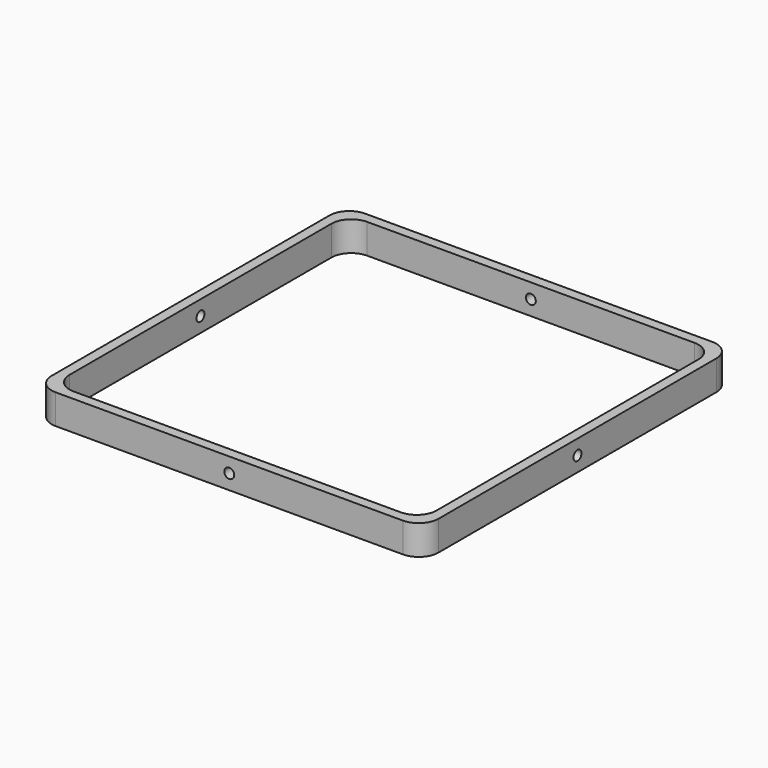
from build123d import *

# Parameters (mm, degrees)
F0_W     = 194.99999
F0_H     = 194.99999
F0_W_2   = 185
F0_H_2   = 185
F1_DEPTH = 15
F2_R     = 10
F3_R     = 2.5
F4_DEPTH = 195.00099
F5_R     = 2.5
F6_DEPTH = 195.00099


with BuildPart() as f1:
    # F0 (on Top) → F1 (new body)
    with BuildSketch(Plane.XY):
        Rectangle(F0_W, F0_H)
        Rectangle(F0_W_2, F0_H_2, mode=Mode.SUBTRACT)
    extrude(amount=F1_DEPTH)

    # F2
    f2_edges = [f1.edges().sort_by_distance(p)[0] for p in [
        (-97.499995, -97.499995, 7.5),
        (97.499995, -97.499995, 7.5),
        (92.5, 92.5, 7.5),
        (-97.499995, 97.499995, 7.5),
        (97.499995, 97.499995, 7.5),
        (92.5, -92.5, 7.5),
        (-92.5, -92.5, 7.5),
        (-92.5, 92.5, 7.5),
    ]]
    fillet(f2_edges, radius=F2_R)

    # F3 (on face) → F4 (cut, through all)
    with BuildSketch(Plane.YZ.offset(97.499995)):
        with Locations((0, 7.5)):
            Circle(F3_R)
    extrude(amount=-F4_DEPTH, mode=Mode.SUBTRACT)

    # F5 (on face) → F6 (cut, through all)
    with BuildSketch(Plane.XZ.offset(97.499995)):
        with Locations((0, 7.5)):
            Circle(F5_R)
    extrude(amount=-F6_DEPTH, mode=Mode.SUBTRACT)


solid = f1.part
